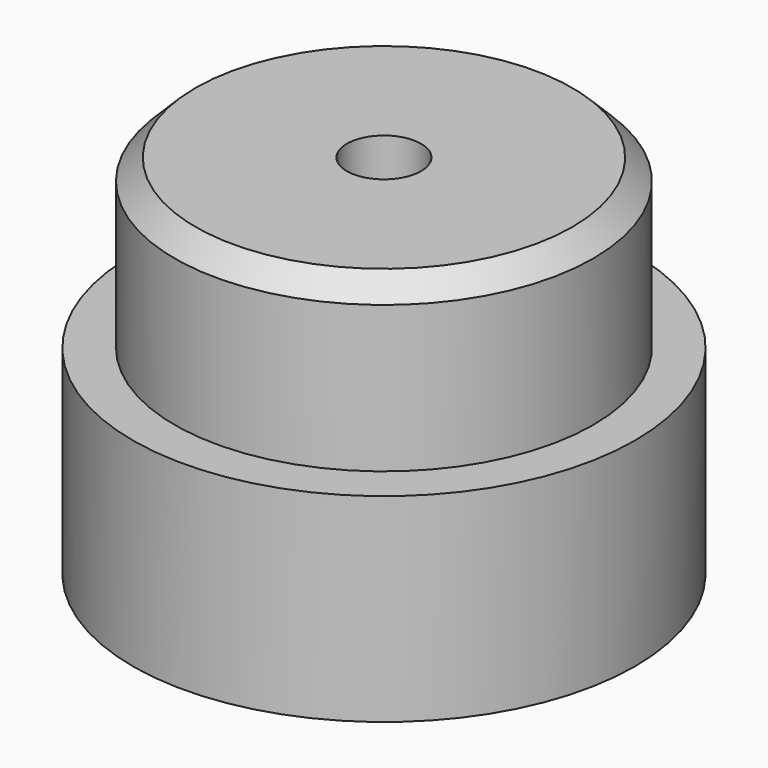
from build123d import *

# Parameters (mm, degrees)
F0_R     = 2.5
F0_R_2   = 0.4435
F1_DEPTH = 3.375
F0_R_3   = 3
F2_DEPTH = 1.375
F3_DEPTH = 0.875
F4_SIZE  = 0.25
F5_DEPTH = 1


with BuildPart() as f1:
    # F0 (on Top) → F1 (new body)
    with BuildSketch(Plane.XY):
        Circle(F0_R)
        Circle(F0_R_2, mode=Mode.SUBTRACT)
    extrude(amount=F1_DEPTH)

    # F0 (on Top) → F2 (join)
    with BuildSketch(Plane.XY):
        Circle(F0_R_3)
        Circle(F0_R, mode=Mode.SUBTRACT)
    extrude(amount=F2_DEPTH)

    # F0 (on Top) → F3 (join)
    with BuildSketch(Plane.XY):
        Circle(F0_R_2)
    extrude(amount=F3_DEPTH)

    # F4
    f4_edges = [f1.edges().sort_by_distance(p)[0] for p in [
        (-2.5, 0, 3.375),
    ]]
    chamfer(f4_edges, length=F4_SIZE)

    # F0 (on Top) → F5 (join)
    with BuildSketch(Plane.XY):
        Circle(F0_R_3)
        Circle(F0_R, mode=Mode.SUBTRACT)
        Circle(F0_R)
        Circle(F0_R_2, mode=Mode.SUBTRACT)
        Circle(F0_R_2)
    extrude(amount=-F5_DEPTH)

    # F6 (on Right) → F7 (revolve, cut)
    with BuildSketch(Plane.YZ):
        Polygon((-6.6943974234, 0.9619678603), (-6.6943974234, 0), (-3.1168663409, 0.9619678603), align=None)
    revolve(axis=Axis((0, 0, 0.9346584557), (0, 0, 1)), mode=Mode.SUBTRACT)


solid = f1.part
